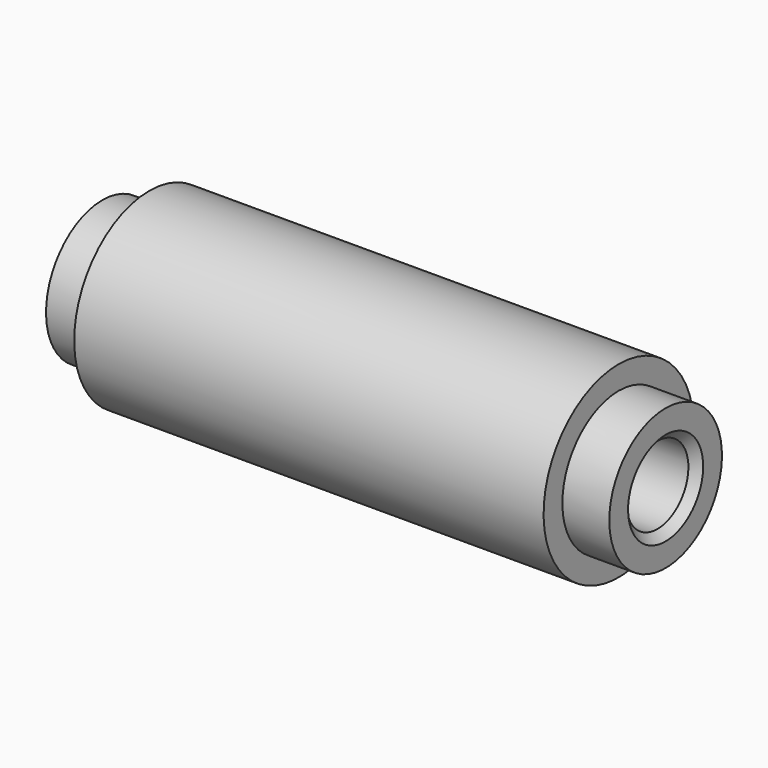
from build123d import *

# Parameters (mm, degrees)
F2_SIZE = 0.35


with BuildPart() as f1:
    # F0 (on Front) → F1 (revolve)
    with BuildSketch(Plane.XZ):
        Polygon((0, 1.65), (0, 3), (-2, 3), (-2, 4), (-22, 4), (-22, 3), (-24, 3), (-24, 1.65), align=None)
        Polygon((0, 1.65), (0, 3), (-2, 3), (-2, 4), (-22, 4), (-22, 3), (-24, 3), (-24, 1.65), align=None)
    revolve(axis=Axis((-12, 0, 0), (-1, 0, 0)))

    # F2
    f2_edges = [f1.edges().sort_by_distance(p)[0] for p in [
        (-24, 0, -1.65),
        (0, 0, -1.65),
    ]]
    chamfer(f2_edges, length=F2_SIZE)


solid = f1.part
